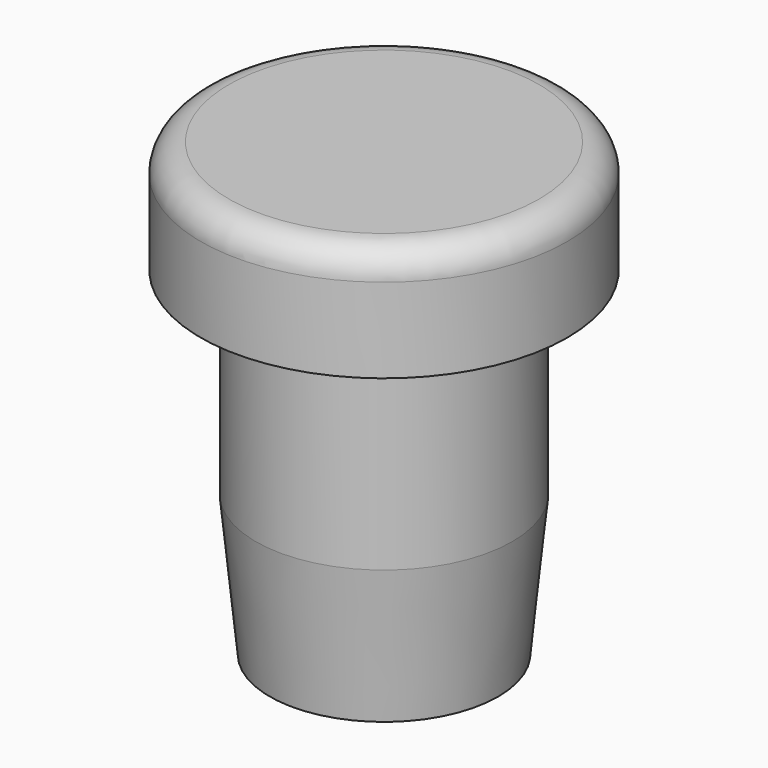
from build123d import *

# Parameters (mm, degrees)
F0_R     = 4.55
F1_DEPTH = 12
F2_SIZE2 = 0.5
F2_SIZE  = 5
F3_R     = 6.5
F3_R_2   = 4.55
F4_DEPTH = 4
F5_R     = 1


with BuildPart() as f1:
    # F0 (on Top) → F1 (new body)
    with BuildSketch(Plane.XY):
        Circle(F0_R)
    extrude(amount=F1_DEPTH)

    # F2
    f2_edges = [f1.edges().sort_by_distance(p)[0] for p in [
        (-4.55, 0, 0),
    ]]
    chamfer(f2_edges, length=F2_SIZE, length2=F2_SIZE2)

    # F3 (on face) → F4 (join)
    with BuildSketch(Plane.XY.offset(12)):
        Circle(F3_R)
        Circle(F3_R_2, mode=Mode.SUBTRACT)
        Circle(F3_R)
        Circle(F3_R_2, mode=Mode.SUBTRACT)
        Circle(F3_R_2)
    extrude(amount=F4_DEPTH)

    # F5
    f5_edges = [f1.edges().sort_by_distance(p)[0] for p in [
        (-6.5, 0, 16),
    ]]
    fillet(f5_edges, radius=F5_R)


solid = f1.part
